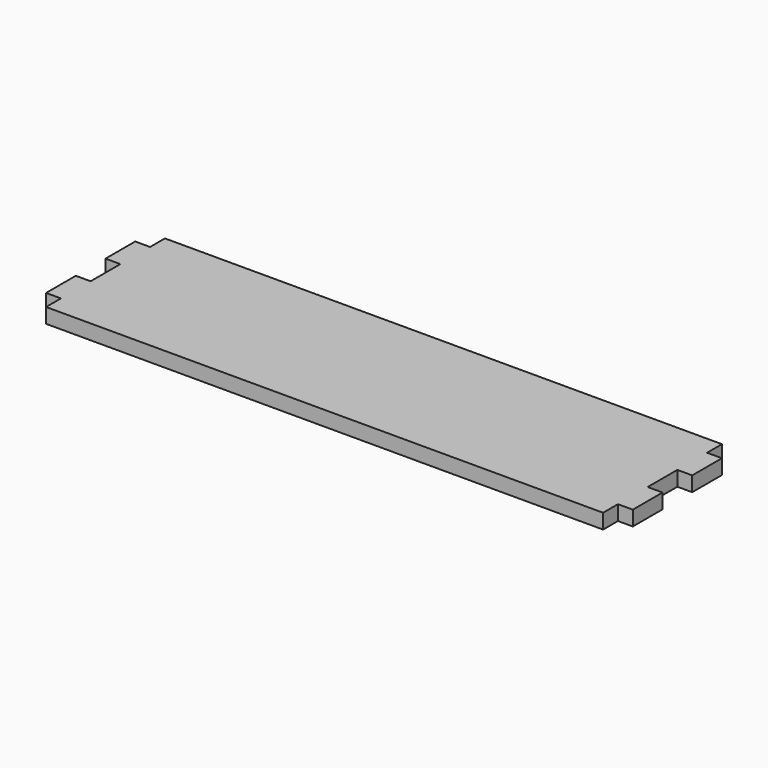
from build123d import *

# Parameters (mm, degrees)
F0_W     = 150
F0_H     = 40
F1_DEPTH = 4
F2_W     = 4
F2_H     = 10
F3_DEPTH = 4


with BuildPart() as f1:
    # F0 (on Top) → F1 (new body)
    with BuildSketch(Plane.XY):
        with Locations((0, -1.181646)):
            Rectangle(F0_W, F0_H)
    extrude(amount=F1_DEPTH)

    # F2 (on face) → F3 (join)
    with BuildSketch(Plane.XY.offset(4)):
        with Locations((-77, 8.818354)):
            Rectangle(F2_W, F2_H)
        with Locations((-77, -11.181646)):
            Rectangle(F2_W, F2_H)
        with Locations((77, 8.818354)):
            Rectangle(F2_W, F2_H)
        with Locations((77, -11.181646)):
            Rectangle(F2_W, F2_H)
    extrude(amount=-F3_DEPTH)


solid = f1.part
